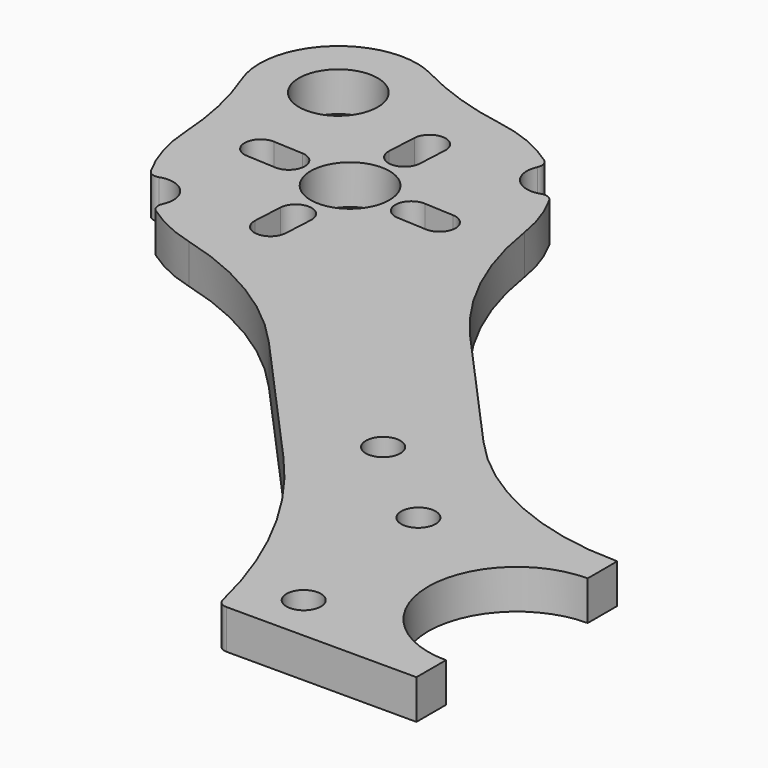
from build123d import *

# Parameters (mm, degrees)
F0_R     = 1.75
F0_R_2   = 4
F1_DEPTH = 4
F3_DEPTH = 25


with BuildPart() as f1:
    # F0 (on Top) → F1 (new body)
    with BuildSketch(Plane.XY):
        with BuildLine():
            ThreePointArc((-60.866685, 57.672949), (-52.260793, 54.049704), (-45.067219, 48.096405))
            Line((-45.067219, 48.096405), (-31.811058, 33.373946))
            ThreePointArc((-31.811058, 33.373946), (-24.648358, 23.0551), (-20.290872, 11.273963))
            ThreePointArc((-20.290872, 11.273963), (-19.938832, 10.717045), (-19.316754, 10.5))
            Line((-19.316754, 10.5), (0, 10.5))
            Line((0, 10.5), (0, 14.25))
            ThreePointArc((0, 14.25), (-9, 23.25), (0, 32.25))
            Line((0, 32.25), (0, 36))
            ThreePointArc((0, 36), (-11.552187, 38.455493), (-21.106896, 45.397396))
            Line((-21.106896, 45.397396), (-33.176902, 58.802495))
            ThreePointArc((-33.176902, 58.802495), (-38.345655, 66.578951), (-41.04949, 75.516431))
            ThreePointArc((-41.04949, 75.516431), (-41.748415, 78.378174), (-42.960149, 81.063275))
            ThreePointArc((-42.960149, 81.063275), (-43.478503, 81.506005), (-44.16015, 81.513669))
            ThreePointArc((-44.16015, 81.513669), (-46.843646, 82.200573), (-47.246286, 84.941171))
            ThreePointArc((-47.246286, 84.941171), (-47.182656, 85.619884), (-47.568778, 86.181677))
            ThreePointArc((-47.568778, 86.181677), (-50.767546, 87.95533), (-54.285532, 88.956197))
            ThreePointArc((-54.285532, 88.956197), (-59.213242, 90.172628), (-63.886631, 92.152896))
            ThreePointArc((-63.886631, 92.152896), (-72.935236, 91.002786), (-75.024882, 82.12397))
            ThreePointArc((-75.024882, 82.12397), (-73.543964, 77.269187), (-72.849283, 72.24132))
            ThreePointArc((-72.849283, 72.24132), (-72.221629, 68.637987), (-70.792054, 65.271345))
            ThreePointArc((-70.792054, 65.271345), (-70.2737, 64.828615), (-69.592053, 64.820951))
            ThreePointArc((-69.592053, 64.820951), (-66.908557, 64.134047), (-66.505918, 61.39345))
            ThreePointArc((-66.505918, 61.39345), (-66.569547, 60.714736), (-66.183425, 60.152944))
            ThreePointArc((-66.183425, 60.152944), (-63.639694, 58.667178), (-60.866685, 57.672949))
        make_face()
        with Locations((-15.25, 15.25)):
            Circle(F0_R, mode=Mode.SUBTRACT)
        with Locations((-26.765224, 39.725793)):
            Circle(F0_R, mode=Mode.SUBTRACT)
        with Locations((-17, 32)):
            Circle(F0_R, mode=Mode.SUBTRACT)
        with Locations((-56.876102, 73.16731)):
            Circle(F0_R_2, mode=Mode.SUBTRACT)
        with Locations((-67.582191, 85.057627)):
            Circle(F0_R_2, mode=Mode.SUBTRACT)
    extrude(amount=F1_DEPTH)

    # F2 (on face) → F3 (cut)
    with BuildSketch(Plane.XY.offset(4)):
        with BuildLine():
            ThreePointArc((-50.299964, 74.449899), (-52.007783, 72.912172), (-50.470055, 71.204353))
            Line((-50.470055, 71.204353), (-47.474167, 71.047346))
            ThreePointArc((-47.474167, 71.047346), (-45.766348, 72.585073), (-47.304075, 74.292892))
            Line((-47.304075, 74.292892), (-50.299964, 74.449899))
        make_face()
        with BuildLine():
            Line((-58.001683, 82.739337), (-58.158691, 79.743448))
            ThreePointArc((-58.158691, 79.743448), (-56.620964, 78.035629), (-54.913145, 79.573356))
            Line((-54.913145, 79.573356), (-54.756137, 82.569245))
            ThreePointArc((-54.756137, 82.569245), (-56.293864, 84.277064), (-58.001683, 82.739337))
        make_face()
        with BuildLine():
            Line((-66.448128, 72.041729), (-63.452239, 71.884721))
            ThreePointArc((-63.452239, 71.884721), (-61.744421, 73.422448), (-63.282148, 75.130267))
            Line((-63.282148, 75.130267), (-66.278036, 75.287275))
            ThreePointArc((-66.278036, 75.287275), (-67.985855, 73.749548), (-66.448128, 72.041729))
        make_face()
        with BuildLine():
            Line((-55.75052, 63.595284), (-55.593512, 66.591172))
            ThreePointArc((-55.593512, 66.591172), (-57.131239, 68.298991), (-58.839058, 66.761264))
            Line((-58.839058, 66.761264), (-58.996066, 63.765376))
            ThreePointArc((-58.996066, 63.765376), (-57.458339, 62.057557), (-55.75052, 63.595284))
        make_face()
    extrude(amount=-F3_DEPTH, mode=Mode.SUBTRACT)


solid = f1.part
